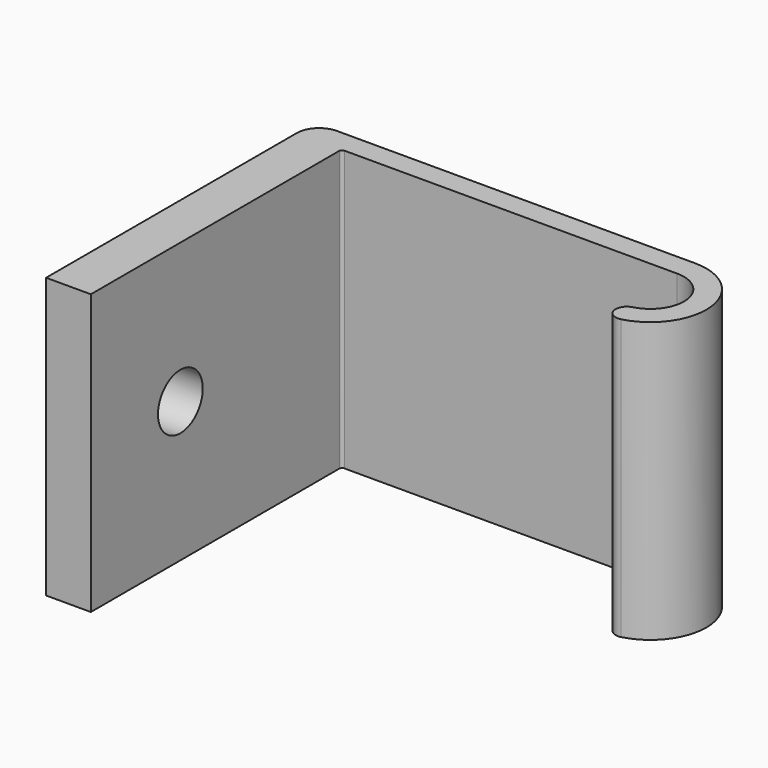
from build123d import *

# Parameters (mm, degrees)
F1_DEPTH = 25
F2_R     = 2.5
F3_DEPTH = 4


with BuildPart() as f1:
    # F0 (on Top) → F1 (new body)
    with BuildSketch(Plane.XY):
        with BuildLine():
            Line((-9.697168, 7.274801), (-11.697168, 7.274801))
            ThreePointArc((-11.697168, 7.274801), (-13.111381, 6.689015), (-13.697168, 5.274801))
            Line((-13.697168, 5.274801), (-13.697168, -22.725199))
            Line((-13.697168, -22.725199), (-9.697168, -22.725199))
            Line((-9.697168, -22.725199), (-9.697168, 5.024801))
            ThreePointArc((-9.697168, 5.024801), (-9.623944, 5.201578), (-9.447168, 5.274801))
            Line((-9.447168, 5.274801), (20.302832, 5.274801))
            ThreePointArc((20.302832, 5.274801), (23.278921, 2.652814), (21.052832, -0.629937))
            ThreePointArc((21.052832, -0.629937), (20.512263, -0.98581), (20.302832, -1.598182))
            ThreePointArc((20.302832, -1.598182), (20.69046, -2.388752), (21.552832, -2.566428))
            ThreePointArc((21.552832, -2.566428), (25.262981, 2.904822), (20.302832, 7.274801))
            Line((20.302832, 7.274801), (-9.697168, 7.274801))
        make_face()
    extrude(amount=F1_DEPTH)

    # F2 (on face) → F3 (cut, through all)
    with BuildSketch(Plane(origin=(-13.697168, 0, 0), x_dir=(0, -1, 0), z_dir=(-1, 0, 0))):
        with Locations((12.725199, 12.5)):
            Circle(F2_R)
    extrude(amount=-F3_DEPTH, mode=Mode.SUBTRACT)


solid = f1.part
